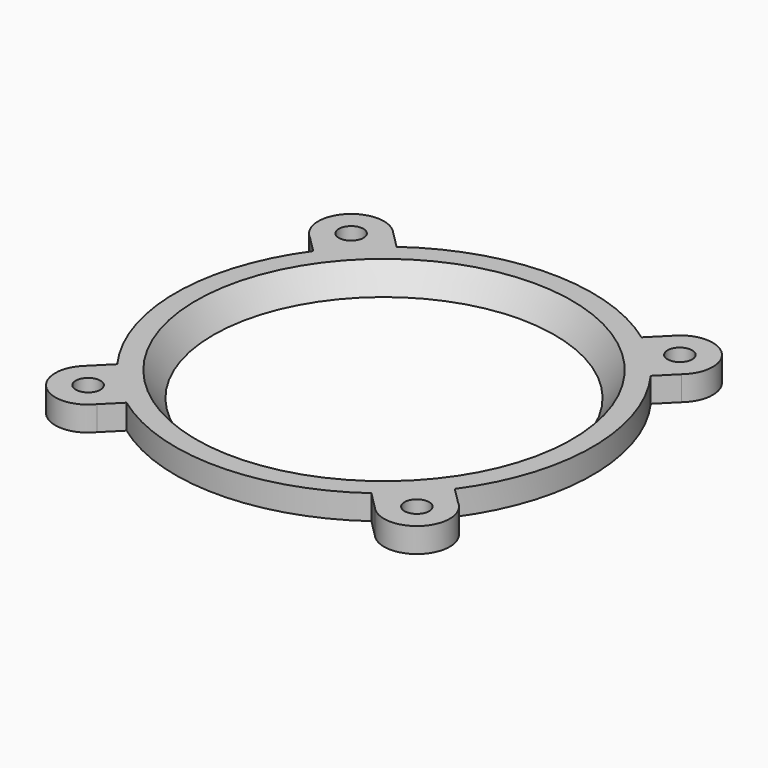
from build123d import *

# Parameters (mm, degrees)
SKETCH005_R = 1.5
PAD_DEPTH   = 3
ARRAY_COUNT = 4


with BuildPart() as revolution001:
    # Sketch004 → Revolution001 (revolve)
    with BuildSketch(Plane(origin=(0, 0, 16), x_dir=(0, 1, 0), z_dir=(1, 0, 0))):
        Polygon((20.768198, -1.5), (22.86882, 1.5), (25.36882, 1.5), (25.36882, -1.5), align=None)
    revolve(axis=Axis((0, 0, 16), (0, 0, 1)))


with BuildPart() as fusion:
    # Sketch005 → Pad (new body)
    with BuildSketch(Plane.XY.offset(14.5)):
        with BuildLine():
            ThreePointArc((20.271681, 14.630753), (17.680475, 17.674864), (14.637187, 20.267036))
            Line((14.637187, 20.267036), (16.909034, 22.538883))
            ThreePointArc((22.608377, 16.967448), (22.796148, 22.860342), (16.909034, 22.538883))
            Line((20.271681, 14.630753), (22.608377, 16.967448))
        make_face()
        with Locations((20, 20)):
            Circle(SKETCH005_R, mode=Mode.SUBTRACT)
    extrude(amount=PAD_DEPTH)

    # Array: Fusion ×4 about axis
    array_axis = Axis((0, 0, 1), (0, 0, 1))


with BuildPart() as fusion_1:
    add(fusion.part)
    for i in range(1, ARRAY_COUNT):
        add(fusion.part.rotate(array_axis, i * 360 / ARRAY_COUNT))

    # Fusion: union Revolution001
    add(revolution001.part)


with BuildPart() as fusion_2:
    # Fusion placement: moved
    add(fusion_1.part.moved(Location((0, -40, -2))))


solid = fusion_2.part
